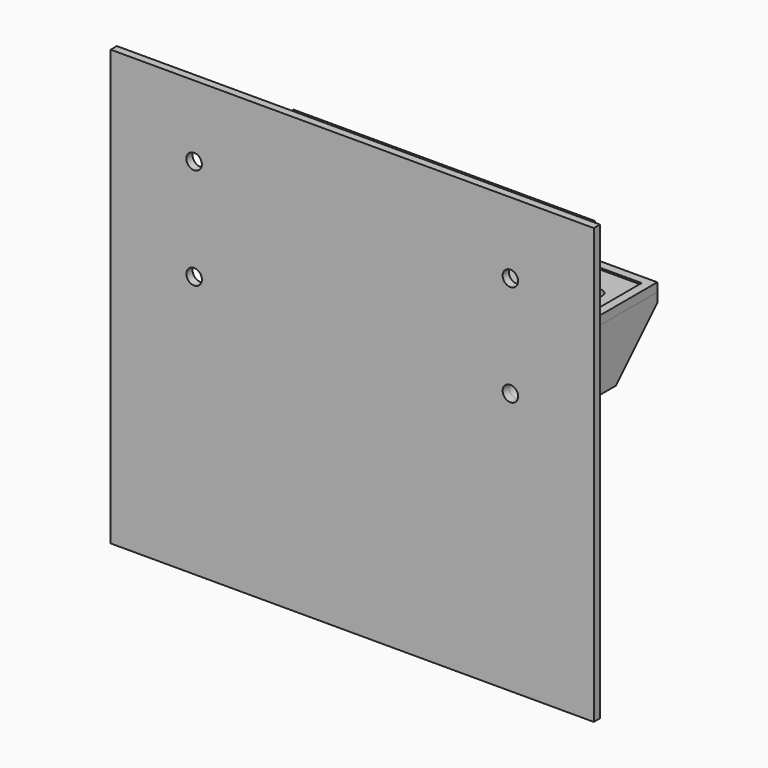
from build123d import *

# Parameters (mm, degrees)
SKETCH_W              = 77.47
SKETCH_H              = 13.915
SKETCH_R              = 1.6
EXTRUDE_DEPTH         = 1.6
SKETCH001_W           = 62.4
SKETCH001_H           = 9.45
EXTRUDE001_DEPTH      = 10
SKETCH002_W           = 62.4
SKETCH002_H           = 9.45
EXTRUDE002_DEPTH      = 10
SKETCH003_W           = 100
SKETCH003_H           = 90
SKETCH003_R           = 1.6
EXTRUDE003_DEPTH      = 1.6
SKETCH005_W           = 9.035
SKETCH005_H           = 10.5
EXTRUDE005_DEPTH      = 4.43
EXTRUDE006_DEPTH      = 1.8
SKETCH008_R           = 1.6
EXTRUDE008_DEPTH      = 22
EXTRUDE009_DEPTH      = 8.5
SKETCH007_R           = 2.5
EXTRUDE007_DEPTH      = 6
EXTRUDE004_DEPTH      = 2
EXTRUDE004_DEPTH_BACK = 12


with BuildPart() as extrude_body:
    # Sketch → Extrude (new body)
    with BuildSketch(Plane.XY):
        with Locations((34.925, 0)):
            Rectangle(SKETCH_W, SKETCH_H)
        Circle(SKETCH_R, mode=Mode.SUBTRACT)
        with Locations((69.85, 0)):
            Circle(SKETCH_R, mode=Mode.SUBTRACT)
    extrude(amount=EXTRUDE_DEPTH)


with BuildPart() as extrude001:
    # Sketch001 (on Face8 of Extrude) → Extrude001 (new body)
    with BuildSketch(Plane.XY.offset(1.6)):
        with Locations((34.925, 0)):
            Rectangle(SKETCH001_W, SKETCH001_H)
    extrude(amount=EXTRUDE001_DEPTH)


with BuildPart() as extrude002:
    # Sketch002 (on Face2 of Extrude) → Extrude002 (new body)
    with BuildSketch(Plane.XZ.offset(7.4575)):
        with Locations((34.925, 0.8)):
            Rectangle(SKETCH002_W, SKETCH002_H)
    extrude(amount=EXTRUDE002_DEPTH)


with BuildPart() as extrude003:
    # Sketch003 (on Face6 of Extrude002) → Extrude003 (new body)
    with BuildSketch(Plane.XZ.offset(17.4575)):
        with Locations((34.925, -18.925)):
            Rectangle(SKETCH003_W, SKETCH003_H)
        with Locations((2.19, 11.3)):
            Circle(SKETCH003_R, mode=Mode.SUBTRACT)
        with Locations((2.19, -9.7)):
            Circle(SKETCH003_R, mode=Mode.SUBTRACT)
        with Locations((67.66, 11.3)):
            Circle(SKETCH003_R, mode=Mode.SUBTRACT)
        with Locations((67.66, -9.7)):
            Circle(SKETCH003_R, mode=Mode.SUBTRACT)
    extrude(amount=EXTRUDE003_DEPTH)


with BuildPart() as extrude005:
    # Sketch005 (on Face5 of Extrude004) → Extrude005 (new body)
    with BuildSketch(Plane.XY.offset(-4.425)):
        with Locations((71.1425, -12.2075)):
            Rectangle(SKETCH005_W, SKETCH005_H)
    extrude(amount=EXTRUDE005_DEPTH)


with BuildPart() as extrude006:
    # Sketch006 (on Face7 of Extrude004) → Extrude006 (new body)
    with BuildSketch(Plane.XY):
        Polygon((61.66, 8.9575), (75.66, 8.9575), (75.66, -17.4575), (66.625, -17.4575), (66.625, -7.1575), (73.86, -7.1575), (73.86, 7.1575), (61.66, 7.1575), align=None)
    extrude(amount=EXTRUDE006_DEPTH)


with BuildPart() as extrude008:
    # Sketch008 (on Face4 of Extrude004) → Extrude008 (new body)
    with BuildSketch(Plane.XZ.offset(17.4575)):
        with Locations((67.66, -9.7)):
            Circle(SKETCH008_R)
    extrude(amount=-EXTRUDE008_DEPTH)


with BuildPart() as extrude009:
    # Sketch009 (on Face2 of Extrude008) → Extrude009 (new body)
    with BuildSketch(Plane(origin=(0, 4.5425, 0), x_dir=(-1, 0, 0), z_dir=(0, 1, 0))):
        Polygon((-64.56, -9.7), (-66.11, -7.015321), (-69.21, -7.015321), (-70.76, -9.7), (-69.21, -12.384679), (-66.11, -12.384679), align=None)
    extrude(amount=-EXTRUDE009_DEPTH)


with BuildPart() as fusion:
    # Sketch007 (on Face7 of Extrude004) → Extrude007 (new body)
    with BuildSketch(Plane.XY):
        with Locations((69.85, 0)):
            Circle(SKETCH007_R)
    extrude(amount=-EXTRUDE007_DEPTH)

    # Fusion: union Extrude008, Extrude009
    add(extrude008.part)
    add(extrude009.part)


with BuildPart() as cut:
    # Sketch004 (on Face3 of Extrude) → Extrude004 (new body, two sides)
    with BuildSketch(Plane.YZ.offset(73.66)) as extrude004_sk:
        Polygon((8.9575, 0), (8.9575, -2), (-1.7425, -12.7), (-17.4575, -12.7), (-17.4575, -4.425), (-6.9575, -4.425), (-6.9575, 0), align=None)
    extrude(amount=EXTRUDE004_DEPTH)
    extrude(extrude004_sk.sketch, amount=-EXTRUDE004_DEPTH_BACK)

    # Cut: cut Fusion
    add(fusion.part, mode=Mode.SUBTRACT)


solid = Compound([extrude_body.part, extrude001.part, extrude002.part, extrude003.part, extrude005.part, extrude006.part, cut.part])
